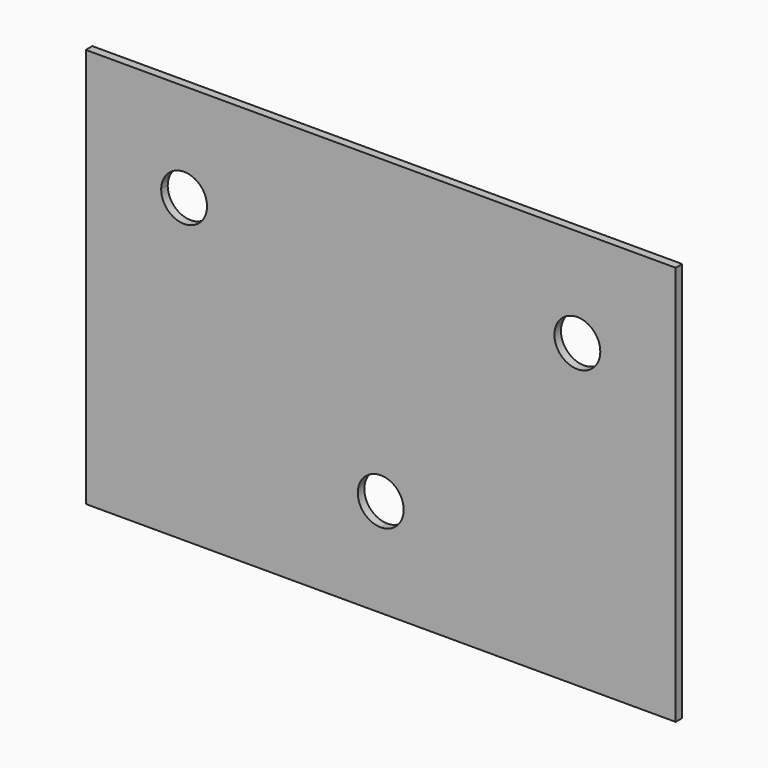
from build123d import *

# Parameters (mm, degrees)
F1_DEPTH = 1.25


with BuildPart() as f1:
    # F0 (on Front) → F1 (new body)
    with BuildSketch(Plane.XZ):
        with BuildLine():
            Line((30, 30.5), (-30, 30.5))
            Line((-30, 30.5), (-30, 19))
            ThreePointArc((-30, 19), (-27.525126, 17.974874), (-26.5, 15.5))
            ThreePointArc((-26.5, 15.5), (-30, 12), (-33.5, 15.5))
            Line((-33.5, 15.5), (-45, 15.5))
            Line((-45, 15.5), (-45, -30.5))
            Line((-45, -30.5), (0, -30.5))
            Line((0, -30.5), (45, -30.5))
            Line((45, -30.5), (45, 15.5))
            Line((45, 15.5), (33.5, 15.5))
            ThreePointArc((33.5, 15.5), (27.525126, 13.025126), (30, 19))
            Line((30, 19), (30, 30.5))
        make_face()
        with BuildLine():
            ThreePointArc((3.5, -15.5), (2.474874, -17.974874), (0, -19))
            ThreePointArc((0, -19), (-2.474874, -13.025126), (3.5, -15.5))
        make_face(mode=Mode.SUBTRACT)
        with BuildLine():
            Line((-30, 30.5), (-45, 30.5))
            Line((-45, 30.5), (-45, 15.5))
            Line((-45, 15.5), (-33.5, 15.5))
            ThreePointArc((-33.5, 15.5), (-32.474874, 17.974874), (-30, 19))
            Line((-30, 19), (-30, 30.5))
        make_face()
        with BuildLine():
            Line((45, 30.5), (30, 30.5))
            Line((30, 30.5), (30, 19))
            ThreePointArc((30, 19), (32.474874, 17.974874), (33.5, 15.5))
            Line((33.5, 15.5), (45, 15.5))
            Line((45, 15.5), (45, 30.5))
        make_face()
    extrude(amount=F1_DEPTH)


solid = f1.part
